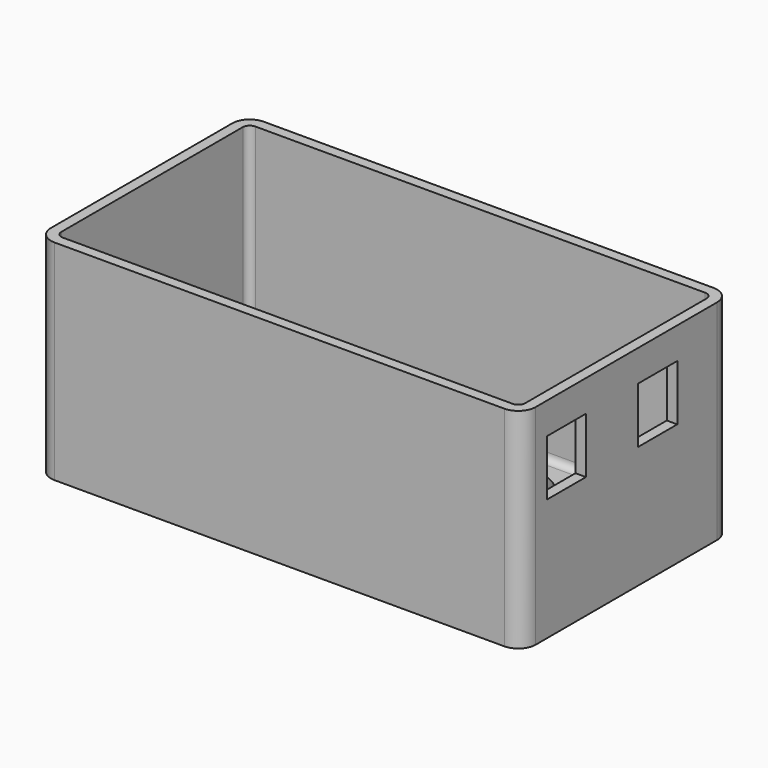
from build123d import *

# Parameters (mm, degrees)
F0_R     = 2
F0_R_2   = 11
F0_W     = 16.8
F0_H     = 13.5
F1_DEPTH = 3
F2_DEPTH = 60
F3_W     = 14
F3_H     = 16
F4_DEPTH = 69.501
F5_R     = 2
F6_R     = 5


with BuildPart() as f1:
    # F0 (on Top) → F1 (new body)
    with BuildSketch(Plane.XY):
        Polygon((-66.5, -18.5), (66.5, -18.5), (66.5, 15.5), (66.5, 50.5), (-66.5, 50.5), (-66.5, 15.5), align=None)
        with Locations((-60.55, -9.15)):
            Circle(F0_R, mode=Mode.SUBTRACT)
        with Locations((-36.7, -9.15)):
            Circle(F0_R, mode=Mode.SUBTRACT)
        with Locations((-12.85, -9.15)):
            Circle(F0_R, mode=Mode.SUBTRACT)
        with Locations((-50.55, 0.85)):
            Circle(F0_R_2, mode=Mode.SUBTRACT)
        with Locations((-40.55, 10.85)):
            Circle(F0_R, mode=Mode.SUBTRACT)
        with Locations((-26.7, 0.85)):
            Circle(F0_R_2, mode=Mode.SUBTRACT)
        with Locations((-2.85, 0.85)):
            Circle(F0_R_2, mode=Mode.SUBTRACT)
        with Locations((-16.7, 10.85)):
            Circle(F0_R, mode=Mode.SUBTRACT)
        with Locations((11, -9.15)):
            Circle(F0_R, mode=Mode.SUBTRACT)
        with Locations((53.6, -4.75)):
            Rectangle(F0_W, F0_H, mode=Mode.SUBTRACT)
        with Locations((21, 0.85)):
            Circle(F0_R_2, mode=Mode.SUBTRACT)
        with Locations((7.15, 10.85)):
            Circle(F0_R, mode=Mode.SUBTRACT)
        with Locations((31, 10.85)):
            Circle(F0_R, mode=Mode.SUBTRACT)
        with Locations((-60.577411, 23.536334)):
            Circle(F0_R, mode=Mode.SUBTRACT)
        with Locations((-36.727411, 23.536334)):
            Circle(F0_R, mode=Mode.SUBTRACT)
        with Locations((-50.577411, 33.536334)):
            Circle(F0_R_2, mode=Mode.SUBTRACT)
        with Locations((-12.877411, 23.536334)):
            Circle(F0_R, mode=Mode.SUBTRACT)
        with Locations((-26.727411, 33.536334)):
            Circle(F0_R_2, mode=Mode.SUBTRACT)
        with Locations((-2.877411, 33.536334)):
            Circle(F0_R_2, mode=Mode.SUBTRACT)
        with Locations((-40.577411, 43.536334)):
            Circle(F0_R, mode=Mode.SUBTRACT)
        with Locations((-16.727411, 43.536334)):
            Circle(F0_R, mode=Mode.SUBTRACT)
        with Locations((10.972589, 23.536334)):
            Circle(F0_R, mode=Mode.SUBTRACT)
        with Locations((20.972589, 33.536334)):
            Circle(F0_R_2, mode=Mode.SUBTRACT)
        with Locations((53.572589, 26.986334)):
            Rectangle(F0_W, F0_H, mode=Mode.SUBTRACT)
        with Locations((7.122589, 43.536334)):
            Circle(F0_R, mode=Mode.SUBTRACT)
        with Locations((30.972589, 43.536334)):
            Circle(F0_R, mode=Mode.SUBTRACT)
    extrude(amount=F1_DEPTH)

    # F0 (on Top) → F2 (join)
    with BuildSketch(Plane.XY):
        Polygon((69.5, -15.5), (69.5, 15.5), (69.5, 53.5), (-69.5, 53.5), (-69.5, 15.5), (-69.5, -15.5), (-69.5, -21.5), (-63.5, -21.5), (63.5, -21.5), (69.5, -21.5), align=None)
        Polygon((66.5, 15.5), (66.5, -18.5), (-66.5, -18.5), (-66.5, 15.5), (-66.5, 50.5), (66.5, 50.5), align=None, mode=Mode.SUBTRACT)
    extrude(amount=F2_DEPTH)

    # F3 (on Right) → F4 (cut, through all)
    with BuildSketch(Plane.YZ):
        with Locations((-5.5, 43)):
            Rectangle(F3_W, F3_H)
        with Locations((27.236, 43)):
            Rectangle(F3_W, F3_H)
    extrude(amount=F4_DEPTH, mode=Mode.SUBTRACT)

    # F5
    f5_edges = [f1.edges().sort_by_distance(p)[0] for p in [
        (66.5, -18.5, 31.5),
        (-66.5, -18.5, 31.5),
        (-66.5, 50.5, 31.5),
        (66.5, 50.5, 31.5),
        (66.5, 16, 3),
        (0, 50.5, 3),
        (0, -18.5, 3),
        (-66.5, 16, 3),
    ]]
    fillet(f5_edges, radius=F5_R)

    # F6
    f6_edges = [f1.edges().sort_by_distance(p)[0] for p in [
        (69.5, -21.5, 30),
        (69.5, 53.5, 30),
        (-69.5, 53.5, 30),
        (-69.5, -21.5, 30),
    ]]
    fillet(f6_edges, radius=F6_R)


solid = f1.part
